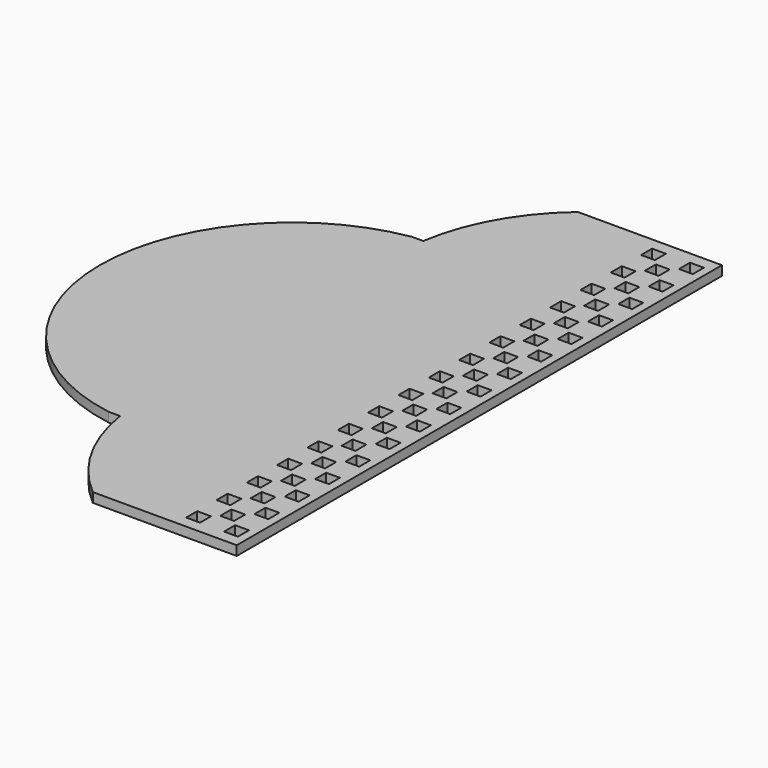
from build123d import *

# Parameters (mm, degrees)
F0_W      = 24.13
F0_H      = 203.2
F0_W_2    = 4.6228
F0_H_2    = 4.6228
F1_DEPTH  = 3.175
F3_W      = 3.81
F3_H      = 127
F4_DEPTH  = 3.175
F5_W      = 24.13
F5_H      = 203.2
F6_DEPTH  = 3.175
F1_FACE_W = 203.2
F1_FACE_H = 3.175
F9_DEPTH  = 0.0254


with BuildPart() as f1:
    # F0 (on Top) → F1 (new body)
    with BuildSketch(Plane.XY):
        with Locations((0.48795, 36.187809)):
            Rectangle(F0_W, F0_H)
        with Locations((-5.27785, -59.112991)):
            Rectangle(F0_W_2, F0_H_2, mode=Mode.SUBTRACT)
        with Locations((-5.27785, -46.412991)):
            Rectangle(F0_W_2, F0_H_2, mode=Mode.SUBTRACT)
        with Locations((-5.27785, -33.712991)):
            Rectangle(F0_W_2, F0_H_2, mode=Mode.SUBTRACT)
        with Locations((-5.27785, -21.012991)):
            Rectangle(F0_W_2, F0_H_2, mode=Mode.SUBTRACT)
        with Locations((-5.27785, -8.312991)):
            Rectangle(F0_W_2, F0_H_2, mode=Mode.SUBTRACT)
        with Locations((-5.27785, 4.387009)):
            Rectangle(F0_W_2, F0_H_2, mode=Mode.SUBTRACT)
        with Locations((-5.27785, 17.087009)):
            Rectangle(F0_W_2, F0_H_2, mode=Mode.SUBTRACT)
        with Locations((-5.27785, 29.787009)):
            Rectangle(F0_W_2, F0_H_2, mode=Mode.SUBTRACT)
        with Locations((1.07215, -52.762991)):
            Rectangle(F0_W_2, F0_H_2, mode=Mode.SUBTRACT)
        with Locations((1.07215, -40.062991)):
            Rectangle(F0_W_2, F0_H_2, mode=Mode.SUBTRACT)
        with Locations((1.07215, -27.362991)):
            Rectangle(F0_W_2, F0_H_2, mode=Mode.SUBTRACT)
        with Locations((1.07215, -14.662991)):
            Rectangle(F0_W_2, F0_H_2, mode=Mode.SUBTRACT)
        with Locations((7.42215, -59.112991)):
            Rectangle(F0_W_2, F0_H_2, mode=Mode.SUBTRACT)
        with Locations((7.42215, -46.412991)):
            Rectangle(F0_W_2, F0_H_2, mode=Mode.SUBTRACT)
        with Locations((7.42215, -33.712991)):
            Rectangle(F0_W_2, F0_H_2, mode=Mode.SUBTRACT)
        with Locations((7.42215, -21.012991)):
            Rectangle(F0_W_2, F0_H_2, mode=Mode.SUBTRACT)
        with Locations((1.07215, -1.962991)):
            Rectangle(F0_W_2, F0_H_2, mode=Mode.SUBTRACT)
        with Locations((1.07215, 10.737009)):
            Rectangle(F0_W_2, F0_H_2, mode=Mode.SUBTRACT)
        with Locations((1.07215, 23.437009)):
            Rectangle(F0_W_2, F0_H_2, mode=Mode.SUBTRACT)
        with Locations((1.07215, 36.137009)):
            Rectangle(F0_W_2, F0_H_2, mode=Mode.SUBTRACT)
        with Locations((7.42215, -8.312991)):
            Rectangle(F0_W_2, F0_H_2, mode=Mode.SUBTRACT)
        with Locations((7.42215, 4.387009)):
            Rectangle(F0_W_2, F0_H_2, mode=Mode.SUBTRACT)
        with Locations((7.42215, 17.087009)):
            Rectangle(F0_W_2, F0_H_2, mode=Mode.SUBTRACT)
        with Locations((7.42215, 29.787009)):
            Rectangle(F0_W_2, F0_H_2, mode=Mode.SUBTRACT)
        with Locations((-5.27785, 42.487009)):
            Rectangle(F0_W_2, F0_H_2, mode=Mode.SUBTRACT)
        with Locations((-5.27785, 55.187009)):
            Rectangle(F0_W_2, F0_H_2, mode=Mode.SUBTRACT)
        with Locations((-5.27785, 67.887009)):
            Rectangle(F0_W_2, F0_H_2, mode=Mode.SUBTRACT)
        with Locations((-5.27785, 80.587009)):
            Rectangle(F0_W_2, F0_H_2, mode=Mode.SUBTRACT)
        with Locations((-5.27785, 93.287009)):
            Rectangle(F0_W_2, F0_H_2, mode=Mode.SUBTRACT)
        with Locations((-5.27785, 105.987009)):
            Rectangle(F0_W_2, F0_H_2, mode=Mode.SUBTRACT)
        with Locations((-5.27785, 118.687009)):
            Rectangle(F0_W_2, F0_H_2, mode=Mode.SUBTRACT)
        with Locations((-5.27785, 131.387009)):
            Rectangle(F0_W_2, F0_H_2, mode=Mode.SUBTRACT)
        with Locations((1.07215, 48.837009)):
            Rectangle(F0_W_2, F0_H_2, mode=Mode.SUBTRACT)
        with Locations((1.07215, 61.537009)):
            Rectangle(F0_W_2, F0_H_2, mode=Mode.SUBTRACT)
        with Locations((1.07215, 74.237009)):
            Rectangle(F0_W_2, F0_H_2, mode=Mode.SUBTRACT)
        with Locations((1.07215, 86.937009)):
            Rectangle(F0_W_2, F0_H_2, mode=Mode.SUBTRACT)
        with Locations((7.42215, 42.487009)):
            Rectangle(F0_W_2, F0_H_2, mode=Mode.SUBTRACT)
        with Locations((7.42215, 55.187009)):
            Rectangle(F0_W_2, F0_H_2, mode=Mode.SUBTRACT)
        with Locations((7.42215, 67.887009)):
            Rectangle(F0_W_2, F0_H_2, mode=Mode.SUBTRACT)
        with Locations((7.42215, 80.587009)):
            Rectangle(F0_W_2, F0_H_2, mode=Mode.SUBTRACT)
        with Locations((1.07215, 99.637009)):
            Rectangle(F0_W_2, F0_H_2, mode=Mode.SUBTRACT)
        with Locations((1.07215, 112.337009)):
            Rectangle(F0_W_2, F0_H_2, mode=Mode.SUBTRACT)
        with Locations((1.07215, 125.037009)):
            Rectangle(F0_W_2, F0_H_2, mode=Mode.SUBTRACT)
        with Locations((7.42215, 93.287009)):
            Rectangle(F0_W_2, F0_H_2, mode=Mode.SUBTRACT)
        with Locations((7.42215, 105.987009)):
            Rectangle(F0_W_2, F0_H_2, mode=Mode.SUBTRACT)
        with Locations((7.42215, 118.687009)):
            Rectangle(F0_W_2, F0_H_2, mode=Mode.SUBTRACT)
        with Locations((7.42215, 131.387009)):
            Rectangle(F0_W_2, F0_H_2, mode=Mode.SUBTRACT)
    extrude(amount=F1_DEPTH)

    # F2: F1 across face


with BuildPart() as f1_1:
    add(f1.part)
    add(f1.part.mirror(Plane(origin=(-11.57705, 36.187809, 1.5875), x_dir=(0, -1, 0), z_dir=(-1, 0, 0))))

    # F3 (on face) → F4 (join)
    with BuildSketch(Plane(origin=(0, 0, 0), x_dir=(1, 0, 0), z_dir=(0, 0, -1))):
        with BuildLine():
            Line((-35.70705, -137.787809), (-35.70705, 65.412191))
            ThreePointArc((-35.70705, 65.412191), (-49.82872, 48.296246), (-57.04305, 27.312191))
            Line((-57.04305, 27.312191), (-57.04305, -99.687809))
            ThreePointArc((-57.04305, -99.687809), (-49.82872, -120.671864), (-35.70705, -137.787809))
        make_face()
        with Locations((-58.94805, -36.187809)):
            Rectangle(F3_W, F3_H)
        with BuildLine():
            Line((-60.85305, -99.687809), (-60.85305, 27.312191))
            ThreePointArc((-60.85305, 27.312191), (-114.585848, -36.187809), (-60.85305, -99.687809))
        make_face()
    extrude(amount=-F4_DEPTH)

    # F5 (on face) → F6 (join)
    with BuildSketch(Plane.XY.offset(3.175)):
        with Locations((-23.64205, 36.187809)):
            Rectangle(F5_W, F5_H)
    extrude(amount=-F6_DEPTH)

    # F1_face (on face) → F9 (cut)
    with BuildSketch(Plane(origin=(12.55295, 36.187809, 1.5875), x_dir=(0, 1, 0), z_dir=(1, 0, 0))):
        Rectangle(F1_FACE_W, F1_FACE_H)
    extrude(amount=-F9_DEPTH, mode=Mode.SUBTRACT)


solid = f1_1.part
